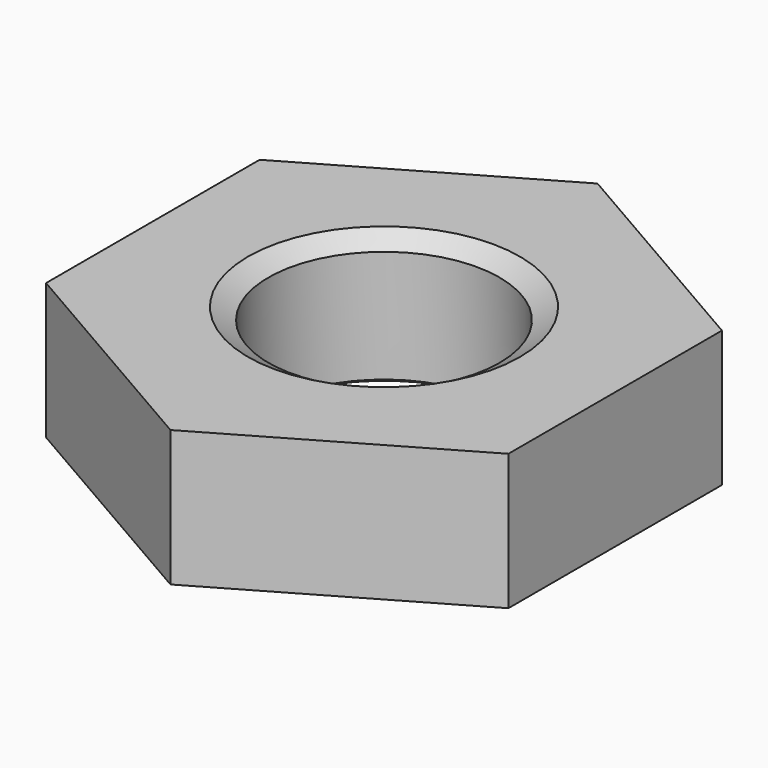
from build123d import *

# Parameters (mm, degrees)
SKETCH001_R  = 10
POCKET_DEPTH = 5


with BuildPart() as part:
    # Sketch → Revolution (revolve)
    with BuildSketch(Plane.XZ):
        Polygon((5, 0), (4.25, 0.433013), (4.25, 4.566987), (5, 5), (10, 5), (10, 0), align=None)
    revolve(axis=Axis((0, 0, 0), (0, 0, 1)))

    # Sketch001 → Pocket (cut)
    with BuildSketch(Plane(origin=(0, 0, 5), x_dir=(-1, 0, 0), z_dir=(0, 0, 1))):
        Circle(SKETCH001_R)
        Polygon((-8.5, 4.907477), (-8.5, -4.907477), (0, -9.814955), (8.5, -4.907477), (8.5, 4.907477), (0, 9.814955), align=None, mode=Mode.SUBTRACT)
    extrude(amount=-POCKET_DEPTH, mode=Mode.SUBTRACT)


solid = part.part
